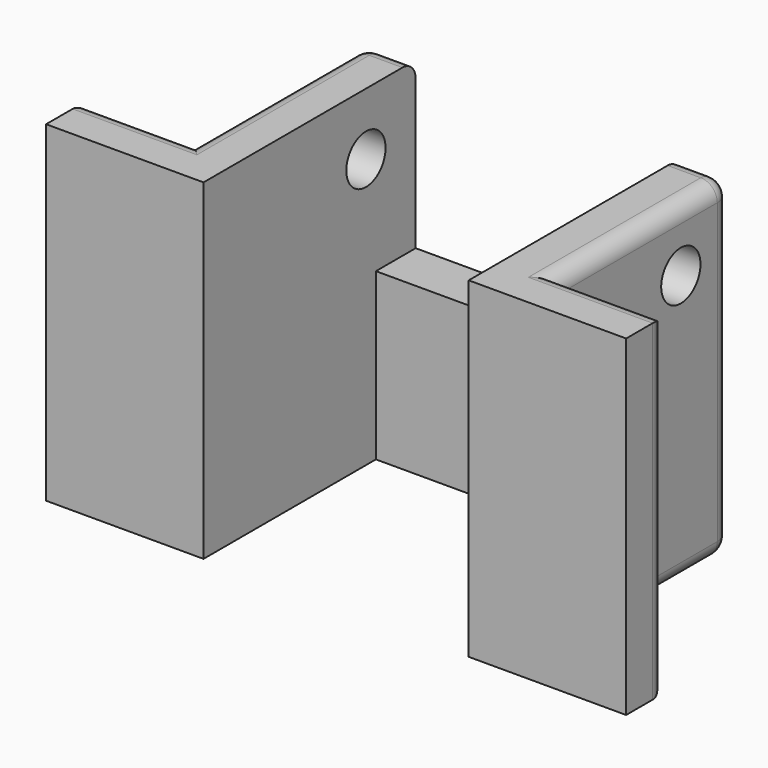
from build123d import *

# Parameters (mm, degrees)
F0_W     = 8.255
F0_H     = 3.81
F1_DEPTH = 25.4
F2_W     = 20.32
F2_H     = 3.81
F3_DEPTH = 12.7
F4_R     = 1.881
F5_DEPTH = 36.196
F6_R     = 1.27


with BuildPart() as f1:
    # F0 (on Top) → F1 (new body)
    with BuildSketch(Plane.XY):
        with Locations((4.1275, 1.905)):
            Rectangle(F0_W, F0_H)
        Polygon((8.255, 3.81), (8.255, 0), (12.065, 0), (12.065, 16.51), (8.255, 16.51), align=None)
        Polygon((8.255, 20.32), (8.255, 16.51), (12.065, 16.51), (32.385, 16.51), (36.195, 16.51), (36.195, 20.32), align=None)
        Polygon((36.195, 16.51), (32.385, 16.51), (32.385, 0), (36.195, 0), (36.195, 3.81), align=None)
        with Locations((40.3225, 1.905)):
            Rectangle(F0_W, F0_H)
    extrude(amount=F1_DEPTH)

    # F2 (on face) → F3 (cut)
    with BuildSketch(Plane.XY.offset(25.4)):
        with Locations((22.225, 18.415)):
            Rectangle(F2_W, F2_H)
    extrude(amount=-F3_DEPTH, mode=Mode.SUBTRACT)

    # F4 (on face) → F5 (cut, through all)
    with BuildSketch(Plane.YZ.offset(36.195)):
        with Locations((15.5575, 20.6375)):
            Circle(F4_R)
    extrude(amount=-F5_DEPTH, mode=Mode.SUBTRACT)

    # F6
    f6_edges = [f1.edges().sort_by_distance(p)[0] for p in [
        (10.16, 20.32, 25.4),
        (34.29, 20.32, 25.4),
        (22.225, 20.32, 0),
        (36.195, 20.32, 12.7),
        (8.255, 20.32, 12.7),
        (36.195, 12.065, 25.4),
        (8.255, 12.065, 25.4),
        (36.195, 12.065, 0),
        (8.255, 12.065, 0),
        (4.1275, 3.81, 0),
        (0, 3.81, 12.7),
        (4.1275, 3.81, 25.4),
        (40.3225, 3.81, 25.4),
        (44.45, 3.81, 12.7),
        (40.3225, 3.81, 0),
    ]]
    fillet(f6_edges, radius=F6_R)


solid = f1.part
